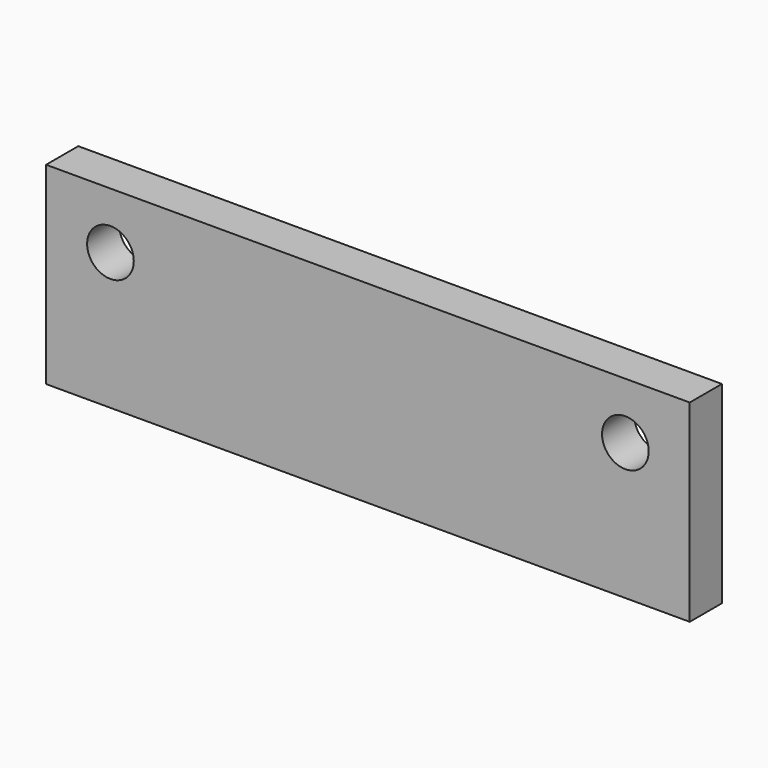
from build123d import *

# Parameters (mm, degrees)
F0_W     = 40
F0_H     = 12
F1_DEPTH = 2.5
F2_R     = 1.45
F3_DEPTH = 2.5


with BuildPart() as f1:
    # F0 (on Front) → F1 (new body)
    with BuildSketch(Plane.XZ):
        Rectangle(F0_W, F0_H)
    extrude(amount=F1_DEPTH)

    # F2 (on face) → F3 (cut, through all)
    with BuildSketch(Plane.XZ.offset(2.5)):
        with Locations((-16, 2.5)):
            Circle(F2_R)
        with Locations((16, 2.5)):
            Circle(F2_R)
    extrude(amount=-F3_DEPTH, mode=Mode.SUBTRACT)


solid = f1.part
